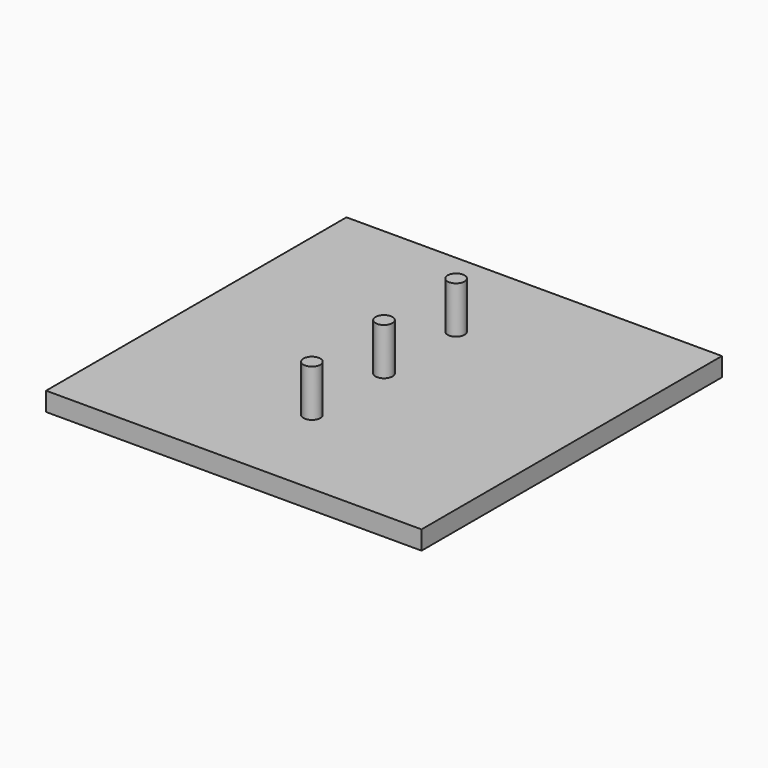
from build123d import *

# Parameters (mm, degrees)
F0_W     = 200
F0_H     = 200
F1_DEPTH = 10
F2_R     = 4.5
F3_DEPTH = 25


with BuildPart() as f1:
    # F0 (on Top) → F1 (new body)
    with BuildSketch(Plane.XY):
        Rectangle(F0_W, F0_H)
    extrude(amount=F1_DEPTH)

    # F2 (on face) → F3 (join)
    with BuildSketch(Plane.XY.offset(10)):
        with Locations((0, 48)):
            Circle(F2_R)
        with Locations((0, -48)):
            Circle(F2_R)
        Circle(F2_R)
    extrude(amount=F3_DEPTH)


solid = f1.part
